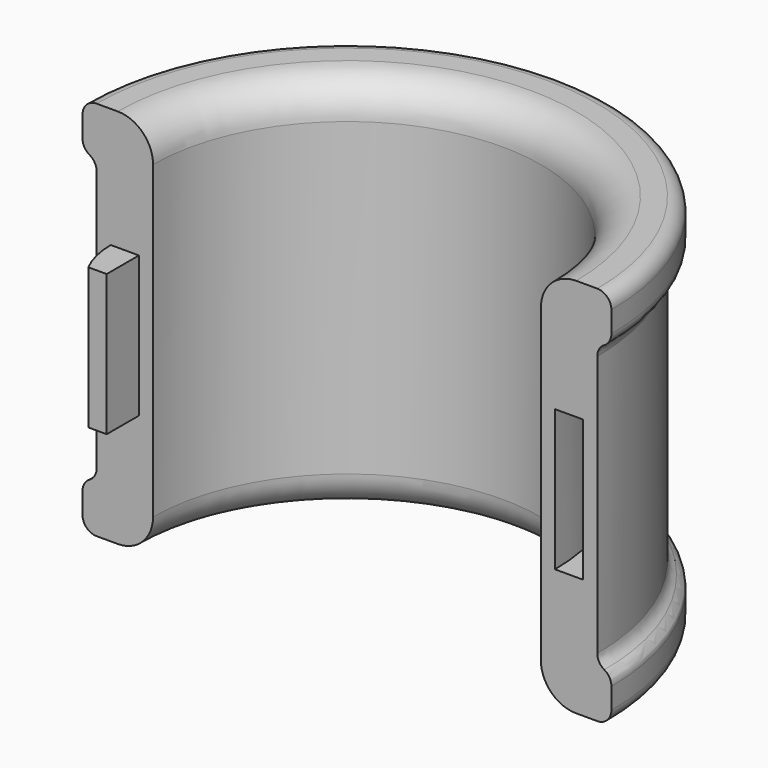
from build123d import *

# Parameters (mm, degrees)
F0_W     = 2.54
F0_H     = 12.7
F1_ANGLE = 180
F3_DEPTH = 6.35
F4_R     = 1.27


with BuildPart() as f1:
    # F0 (on Front) → F1 (revolve)
    with BuildSketch(Plane.XZ):
        with BuildLine():
            Line((-17.4625, -13.97), (-17.4625, 13.97))
            ThreePointArc((-17.4625, 13.97), (-18.392436, 16.215064), (-20.6375, 17.145))
            Line((-20.6375, 17.145), (-23.8125, 17.145))
            Line((-23.8125, 17.145), (-23.8125, 13.97))
            ThreePointArc((-23.8125, 13.97), (-23.440526, 13.071974), (-22.5425, 12.7))
            Line((-22.5425, 12.7), (-22.5425, -12.7))
            ThreePointArc((-22.5425, -12.7), (-23.440526, -13.071974), (-23.8125, -13.97))
            Line((-23.8125, -13.97), (-23.8125, -17.145))
            Line((-23.8125, -17.145), (-20.6375, -17.145))
            ThreePointArc((-20.6375, -17.145), (-18.392436, -16.215064), (-17.4625, -13.97))
        make_face()
        with Locations((-20.0025, 0)):
            Rectangle(F0_W, F0_H, mode=Mode.SUBTRACT)
    revolve(axis=Axis((0, 0, 0), (0, 0, -1)), revolution_arc=F1_ANGLE)

    # F2 (on Top) → F3 (join, symmetric)
    with BuildSketch(Plane.XY):
        with BuildLine():
            Line((-18.104011, 4.811585), (-20.721195, 4.811585))
            ThreePointArc((-20.721195, 4.811585), (-21.134224, 2.421533), (-21.2725, 0))
            ThreePointArc((-21.2725, 0), (-21.047769, -1.867615), (-20.386407, -3.628606))
            Line((-20.386407, -3.628606), (-18.7325, -3.628606))
            Line((-18.7325, -3.628606), (-18.7325, 0))
            ThreePointArc((-18.7325, 0), (-18.574713, 2.426229), (-18.104011, 4.811585))
        make_face()
    extrude(amount=F3_DEPTH, both=True)

    # F4
    f4_edges = [f1.edges().sort_by_distance(p)[0] for p in [
        (0, 22.5425, 12.7),
        (0, 22.5425, -12.7),
        (0, 23.8125, 17.145),
        (0, 23.8125, -17.145),
    ]]
    fillet(f4_edges, radius=F4_R)


solid = f1.part
